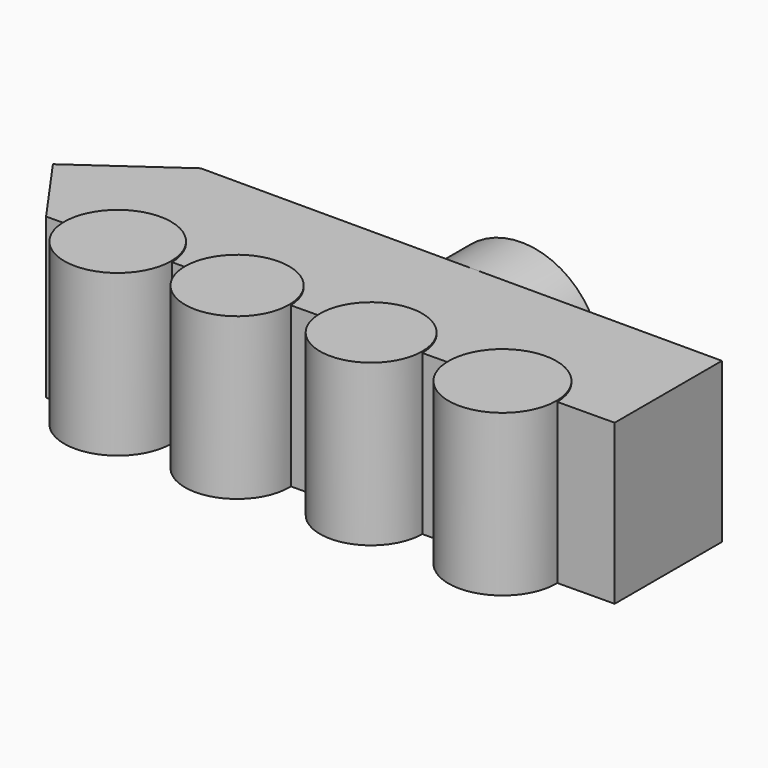
from build123d import *

# Parameters (mm, degrees)
F1_DEPTH = 39.081264
F2_R     = 13.086834
F2_R_2   = 12.762308
F2_R_3   = 12.541297
F2_R_4   = 13.219685
F3_DEPTH = 39.425768
F4_R     = 19.429487
F5_DEPTH = 14.579227
F6_R     = 5.692601
F7_DEPTH = 52.206531


with BuildPart() as f1:
    # F0 (on Top) → F1 (new body)
    with BuildSketch(Plane.XY):
        Polygon((-52.925434, 16.347141), (-76.083884, 0), (-63.54259, -17.766833), (74.829757, -16.512707), (74.829757, 16.347141), align=None)
    extrude(amount=F1_DEPTH)

    # F2 (on Top) → F3 (join)
    with BuildSketch(Plane.XY):
        with Locations((-45.984775, -17.766833)):
            Circle(F2_R)
        with Locations((-16.72174, -17.766833)):
            Circle(F2_R_2)
        with Locations((15.467599, -16.930744)):
            Circle(F2_R_3)
        with Locations((47.656953, -16.930744)):
            Circle(F2_R_4)
    extrude(amount=F3_DEPTH)

    # F4 (on face) → F5 (join)
    with BuildSketch(Plane(origin=(0, 16.347141, 0), x_dir=(-1, 0, 0), z_dir=(0, 1, 0))):
        with Locations((-14.022259, 19.540632)):
            Circle(F4_R)
    extrude(amount=F5_DEPTH)

    # F6 (on Right) → F7 (join)
    with BuildSketch(Plane.YZ):
        with Locations((23.680674, 21.317706)):
            Circle(F6_R)
    extrude(amount=-F7_DEPTH)


solid = f1.part
